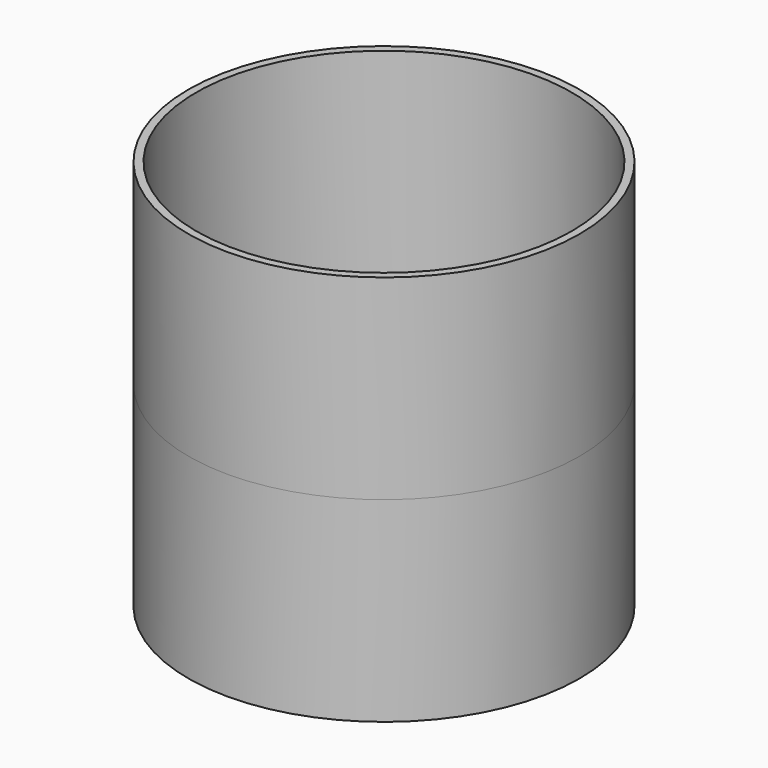
from build123d import *

# Parameters (mm, degrees)
F0_R          = 25
F1_DEPTH      = 25
F1_DEPTH_BACK = 25


with BuildPart() as f1:
    # F0 (on Top) → F1 (new body, two sides)
    with BuildSketch(Plane.XY) as f1_sk:
        Circle(F0_R)
        with BuildLine():
            ThreePointArc((-24, 0), (0, 24), (24, 0))
            ThreePointArc((24, 0), (0, -24), (-24, 0))
        make_face(mode=Mode.SUBTRACT)
    extrude(amount=-F1_DEPTH)
    extrude(f1_sk.sketch, amount=F1_DEPTH_BACK)


solid = f1.part
